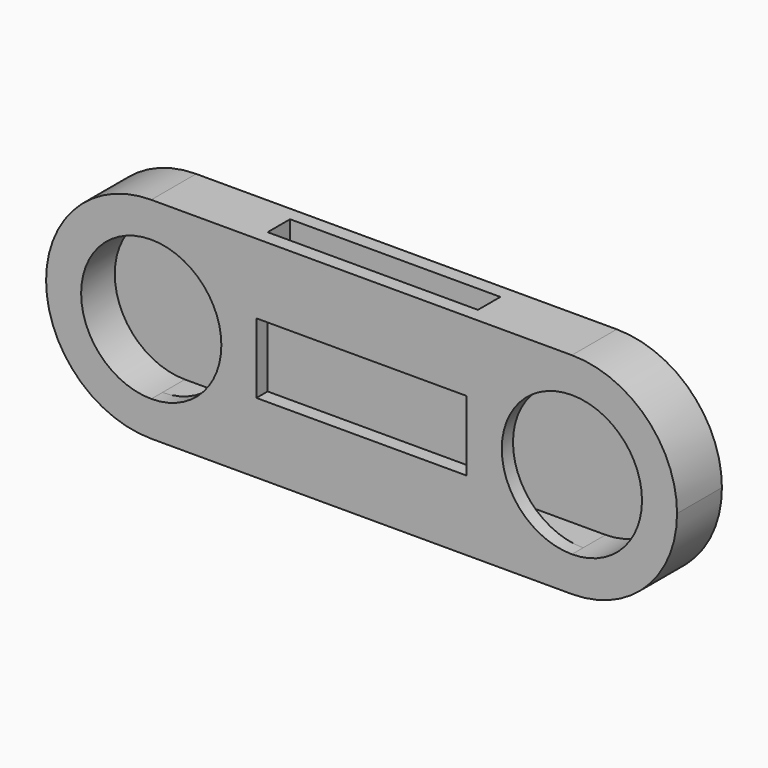
from build123d import *

# Parameters (mm, degrees)
F0_W      = 152.4
F0_H      = 76.2
F1_DEPTH  = 20.32
F2_W      = 76.2
F2_H      = 10.16
F3_DEPTH  = 63.5
F5_W      = 10.16
F5_H      = 50.8
F6_DEPTH  = 152.4
F7_DEPTH  = 20.32
F9_DEPTH  = 15.24
F10_W     = 76.2
F10_H     = 25.4
F11_DEPTH = 5.08


with BuildPart() as f1:
    # F0 (on Front) → F1 (new body)
    with BuildSketch(Plane.XZ):
        with Locations((28.4777595112, -5.5712945759)):
            Rectangle(F0_W, F0_H)
    extrude(amount=F1_DEPTH)

    # F2 (on face) → F3 (cut)
    with BuildSketch(Plane.XY.offset(32.5287054241)):
        with Locations((28.4777595112, -10.16)):
            Rectangle(F2_W, F2_H)
    extrude(amount=-F3_DEPTH, mode=Mode.SUBTRACT)

    # F5 (on face) → F6 (cut)
    with BuildSketch(Plane(origin=(-47.7222404888, 0, 0), x_dir=(0, -1, 0), z_dir=(-1, 0, 0))):
        with Locations((10.16, -5.5712945759)):
            Rectangle(F5_W, F5_H)
    extrude(amount=-F6_DEPTH, mode=Mode.SUBTRACT)

    # F4 (on face) → F7 (join)
    with BuildSketch(Plane.XZ.offset(20.32)):
        with BuildLine():
            Line((-47.7222404888, -43.6712945759), (-47.7222404888, 32.5287054241))
            ThreePointArc((-47.7222404888, 32.5287054241), (-85.8222404888, -5.5712945759), (-47.7222404888, -43.6712945759))
        make_face()
        with BuildLine():
            ThreePointArc((142.7777595112, -5.5712945759), (131.6185278744, 21.3694737873), (104.6777595112, 32.5287054241))
            Line((104.6777595112, 32.5287054241), (104.6777595112, -43.6712945759))
            ThreePointArc((104.6777595112, -43.6712945759), (131.6185278744, -32.5120629391), (142.7777595112, -5.5712945759))
        make_face()
    extrude(amount=-F7_DEPTH)

    # F8 (on face) → F9 (cut)
    with BuildSketch(Plane.XZ.offset(20.32)):
        with BuildLine():
            Line((-47.7222404888, -30.9712945759), (-47.7222404888, 19.8287054241))
            ThreePointArc((-47.7222404888, 19.8287054241), (-73.1222404888, -5.5712945759), (-47.7222404888, -30.9712945759))
        make_face()
        with BuildLine():
            ThreePointArc((-22.3222404888, -5.5712945759), (-29.7617282466, 12.3892176662), (-47.7222404888, 19.8287054241))
            Line((-47.7222404888, 19.8287054241), (-47.7222404888, -30.9712945759))
            ThreePointArc((-47.7222404888, -30.9712945759), (-29.7617282466, -23.5318068181), (-22.3222404888, -5.5712945759))
        make_face()
        with BuildLine():
            Line((104.6777595112, -30.9712945759), (104.6777595112, 19.8287054241))
            ThreePointArc((104.6777595112, 19.8287054241), (79.2777595112, -5.5712945759), (104.6777595112, -30.9712945759))
        make_face()
        with BuildLine():
            ThreePointArc((130.0777595112, -5.5712945759), (122.6382717534, 12.3892176662), (104.6777595112, 19.8287054241))
            Line((104.6777595112, 19.8287054241), (104.6777595112, -30.9712945759))
            ThreePointArc((104.6777595112, -30.9712945759), (122.6382717534, -23.5318068181), (130.0777595112, -5.5712945759))
        make_face()
    extrude(amount=-F9_DEPTH, mode=Mode.SUBTRACT)

    # F10 (on face) → F11 (cut)
    with BuildSketch(Plane.XZ.offset(20.32)):
        with Locations((28.4777595112, -5.5712945759)):
            Rectangle(F10_W, F10_H)
    extrude(amount=-F11_DEPTH, mode=Mode.SUBTRACT)


solid = f1.part
